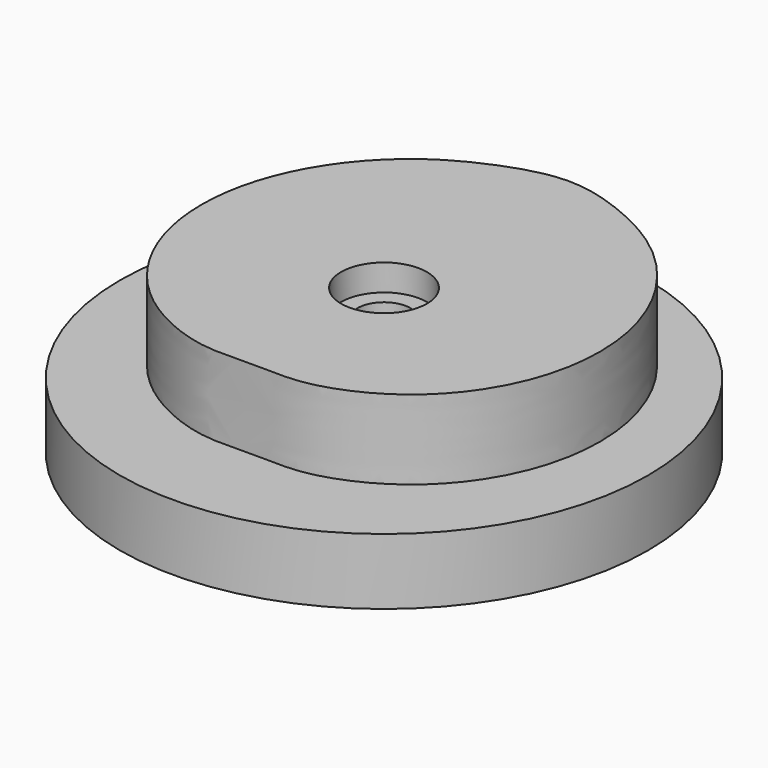
from build123d import *

# Parameters (mm, degrees)
F0_R      = 44.45
F1_DEPTH  = 12.7
F5_DEPTH  = 15.24
F6_R      = 5.08
F7_DEPTH  = 27.9410001
F8_R      = 50.8
F8_R_2    = 44.45
F9_DEPTH  = 12.7
F10_R     = 8.255
F11_DEPTH = 5.08
F12_R     = 8.255
F13_DEPTH = 5.08


with BuildPart() as f1:
    # F0 (on Top) → F1 (new body)
    with BuildSketch(Plane.XY):
        Circle(F0_R)
    extrude(amount=F1_DEPTH)

    # F4 (on face) → F5 (join)
    with BuildSketch(Plane.XY.offset(12.7)):
        with BuildLine():
            add(Edge.make_bspline(
                [(0, 44.45), (3.8161622768, 44.45), (11.4026198726, 42.2339028191), (21.4291073523, 37.118983182), (29.5441568439, 29.4978435068), (35.2464971495, 20.3249657359), (38.2717968038, 10.2291283802), (38.5450602767, -0.0236397411), (36.1914928493, -9.7235011377), (31.5155163655, -18.2197270955), (24.9664771709, -25.01482225), (17.1162591598, -29.6396275034), (8.5482860936, -32.2367039327), (0, -31.508581644), (-8.5482860936, -32.2367039327), (-17.1162591598, -29.6396275034), (-24.9664771709, -25.01482225), (-31.5155163655, -18.2197270955), (-36.1914928493, -9.7235011377), (-38.5450602767, -0.0236397411), (-38.2717968038, 10.2291283802), (-35.2464971495, 20.3249657359), (-29.5441568439, 29.4978435068), (-21.4291073523, 37.118983182), (-11.4026198726, 42.2339028191), (-3.8161622768, 44.45), (0, 44.45)],
                knots=[0, 0, 0, 0, 0.0447553696, 0.0889728186, 0.1326458397, 0.1757676888, 0.2183313697, 0.2603296192, 0.3017548895, 0.3425993302, 0.3828547676, 0.422512683, 0.4615641884, 0.5, 0.5384358116, 0.577487317, 0.6171452324, 0.6574006698, 0.6982451105, 0.7396703808, 0.7816686303, 0.8242323112, 0.8673541603, 0.9110271814, 0.9552446304, 1, 1, 1, 1], degree=3))
        make_face()
    extrude(amount=F5_DEPTH)

    # F6 (on face) → F7 (cut, through all)
    with BuildSketch(Plane(origin=(0, 0, 0), x_dir=(1, 0, 0), z_dir=(0, 0, -1))):
        Circle(F6_R)
    extrude(amount=-F7_DEPTH, mode=Mode.SUBTRACT)

    # F8 (on face) → F9 (join, through all)
    with BuildSketch(Plane(origin=(0, 0, 0), x_dir=(1, 0, 0), z_dir=(0, 0, -1))):
        Circle(F8_R)
        Circle(F8_R_2, mode=Mode.SUBTRACT)
    extrude(amount=-F9_DEPTH)

    # F10 (on face) → F11 (cut)
    with BuildSketch(Plane(origin=(0, 0, 0), x_dir=(1, 0, 0), z_dir=(0, 0, -1))):
        Circle(F10_R)
    extrude(amount=-F11_DEPTH, mode=Mode.SUBTRACT)

    # F12 (on face) → F13 (cut)
    with BuildSketch(Plane.XY.offset(27.94)):
        Circle(F12_R)
    extrude(amount=-F13_DEPTH, mode=Mode.SUBTRACT)


solid = f1.part
